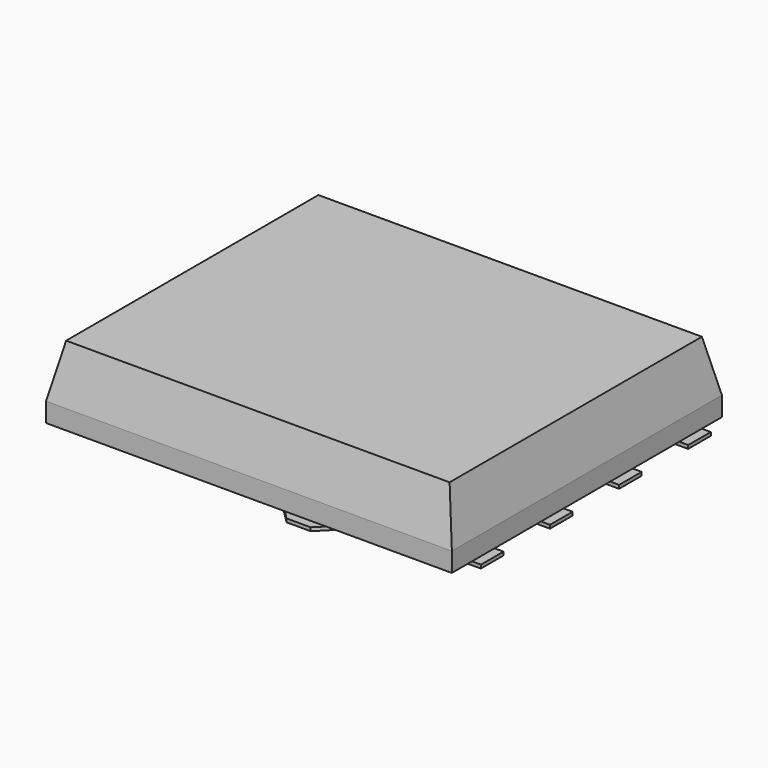
from build123d import *

# Parameters (mm, degrees)
SKETCH001_W     = 5.89
SKETCH001_H     = 4.9
PAD001_DEPTH    = 1.04
POCKET_DEPTH    = 6
POCKET001_DEPTH = 6
SKETCH_W        = 0.61
SKETCH_H        = 0.41
PAD_DEPTH       = 0.05
CHAMFER004_SIZE = 0.2
CHAMFER005_SIZE = 0.2
CHAMFER006_SIZE = 0.2
CHAMFER007_SIZE = 0.2


with BuildPart() as pocket001:
    # Sketch001 → Pad001 (new body)
    with BuildSketch(Plane.XY.offset(0.05)):
        with Locations((3.075, 2.575)):
            Rectangle(SKETCH001_W, SKETCH001_H)
    extrude(amount=PAD001_DEPTH)

    # Sketch002 → Pocket (cut)
    with BuildSketch(Plane(origin=(0, 0.125, 0.05), x_dir=(1, 0, 0), z_dir=(0, -1, 0))):
        Polygon((0.13, 0.28), (0.13, 1.04), (0.291543, 1.04), align=None)
        Polygon((5.858457, 1.04), (6.02, 1.04), (6.02, 0.28), align=None)
    extrude(amount=-POCKET_DEPTH, mode=Mode.SUBTRACT)

    # Sketch003 → Pocket001 (cut)
    with BuildSketch(Plane(origin=(6.02, 0, 0.05), x_dir=(0, 1, 0), z_dir=(1, 0, 0))):
        Polygon((0.125, 0.28), (0.125, 1.04), (0.286543, 1.04), align=None)
        Polygon((4.863457, 1.04), (5.025, 1.04), (5.025, 0.28), align=None)
    extrude(amount=-POCKET001_DEPTH, mode=Mode.SUBTRACT)


with BuildPart() as fusion:
    # Sketch → Pad (new body)
    with BuildSketch(Plane.XY):
        Polygon((3.52, 0), (3.52, 0.49), (0, 0.49), (0, 0.9), (0.61, 0.9), (0.61, 1.743333), (0, 1.743333), (0, 2.153333), (0.61, 2.153333), (0.61, 2.996667), (0, 2.996667), (0, 3.406667), (0.61, 3.406667), (0.61, 4.25), (0, 4.25), (0, 4.66), (3.52, 4.66), (3.52, 5.15), (4.27, 5.15), (4.27, 0), align=None)
        with Locations((5.845, 4.455)):
            Rectangle(SKETCH_W, SKETCH_H)
        with Locations((5.845, 3.201667)):
            Rectangle(SKETCH_W, SKETCH_H)
        with Locations((5.845, 1.948333)):
            Rectangle(SKETCH_W, SKETCH_H)
        with Locations((5.845, 0.695)):
            Rectangle(SKETCH_W, SKETCH_H)
    extrude(amount=PAD_DEPTH)

    # Chamfer004
    chamfer004_edges = [fusion.edges().sort_by_distance(p)[0] for p in [
        (4.27, 0, 0.025),
    ]]
    chamfer(chamfer004_edges, length=CHAMFER004_SIZE)

    # Chamfer005
    chamfer005_edges = [fusion.edges().sort_by_distance(p)[0] for p in [
        (3.52, 0, 0.025),
    ]]
    chamfer(chamfer005_edges, length=CHAMFER005_SIZE)

    # Chamfer006
    chamfer006_edges = [fusion.edges().sort_by_distance(p)[0] for p in [
        (3.52, 5.15, 0.025),
    ]]
    chamfer(chamfer006_edges, length=CHAMFER006_SIZE)

    # Chamfer007
    chamfer007_edges = [fusion.edges().sort_by_distance(p)[0] for p in [
        (4.27, 5.15, 0.025),
    ]]
    chamfer(chamfer007_edges, length=CHAMFER007_SIZE)

    # Fusion: union Pocket001
    add(pocket001.part)


with BuildPart() as fusion_1:
    # Fusion placement: moved
    add(fusion.part.moved(Location((-3.075, -2.575, 0))))


solid = fusion_1.part
